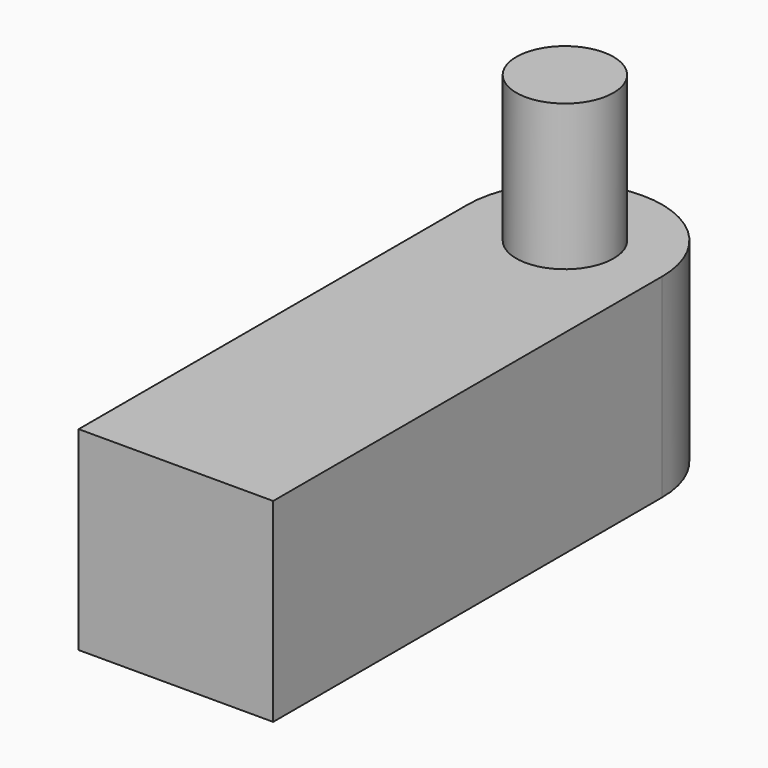
from build123d import *

# Parameters (mm, degrees)
F0_R      = 5
F1_DEPTH  = 10
F2_R      = 5
F3_DEPTH  = 25
F3_FACE_R = 5
F4_DEPTH  = 15


with BuildPart() as f1:
    # F0 (on Top) → F1 (new body, symmetric)
    with BuildSketch(Plane.XY):
        with BuildLine():
            Line((-10, -25), (10, -25))
            Line((10, -25), (10, 25))
            ThreePointArc((10, 25), (0, 35), (-10, 25))
            Line((-10, 25), (-10, -25))
        make_face()
        with Locations((0, 25)):
            Circle(F0_R, mode=Mode.SUBTRACT)
    extrude(amount=F1_DEPTH, both=True)

    # F2 (on Top) → F3 (join, symmetric)
    with BuildSketch(Plane.XY):
        with Locations((0, 25)):
            Circle(F2_R)
    extrude(amount=F3_DEPTH, both=True)

    # F3_face (on face) → F4 (cut)
    with BuildSketch(Plane(origin=(0, 25, -25), x_dir=(1, 0, 0), z_dir=(0, 0, -1))):
        Circle(F3_FACE_R)
    extrude(amount=-F4_DEPTH, mode=Mode.SUBTRACT)


solid = f1.part
